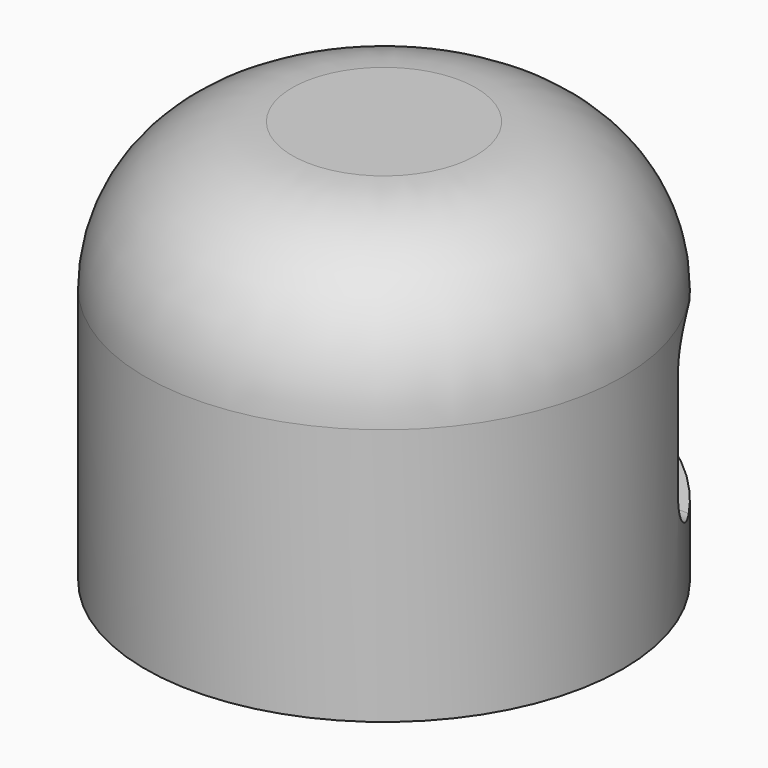
from build123d import *

# Parameters (mm, degrees)
F0_R     = 6.5
F1_DEPTH = 11
F2_R     = 4
F3_T     = -1
F5_DEPTH = 12.5


with BuildPart() as f1:
    # F0 (on Top) → F1 (new body)
    with BuildSketch(Plane.XY):
        Circle(F0_R)
    extrude(amount=F1_DEPTH)

    # F2
    f2_edges = [f1.edges().sort_by_distance(p)[0] for p in [
        (-6.5, 0, 11),
    ]]
    fillet(f2_edges, radius=F2_R)

    # F3
    f3_openings = [f1.faces().sort_by_distance(p)[0] for p in [
        (0, 0, 0),
    ]]
    offset(amount=F3_T, openings=f3_openings)

    # F4 (on Right) → F5 (cut, symmetric)
    with BuildSketch(Plane.YZ):
        with BuildLine():
            Line((6.030791, 4.17559), (7.637922, 5.686835))
            Line((7.637922, 5.686835), (3.811015, 6.88965))
            ThreePointArc((3.811015, 6.88965), (2.919498, 6.741838), (2.511172, 5.935661))
            Line((2.511172, 5.935661), (2.511172, 2.903478))
            ThreePointArc((2.511172, 2.903478), (2.837681, 2.164282), (3.603992, 1.907795))
            Line((3.603992, 1.907795), (6.069606, 2.137645))
            Line((6.069606, 2.137645), (6.030791, 4.17559))
        make_face()
    extrude(amount=F5_DEPTH, both=True, mode=Mode.SUBTRACT)


solid = f1.part
